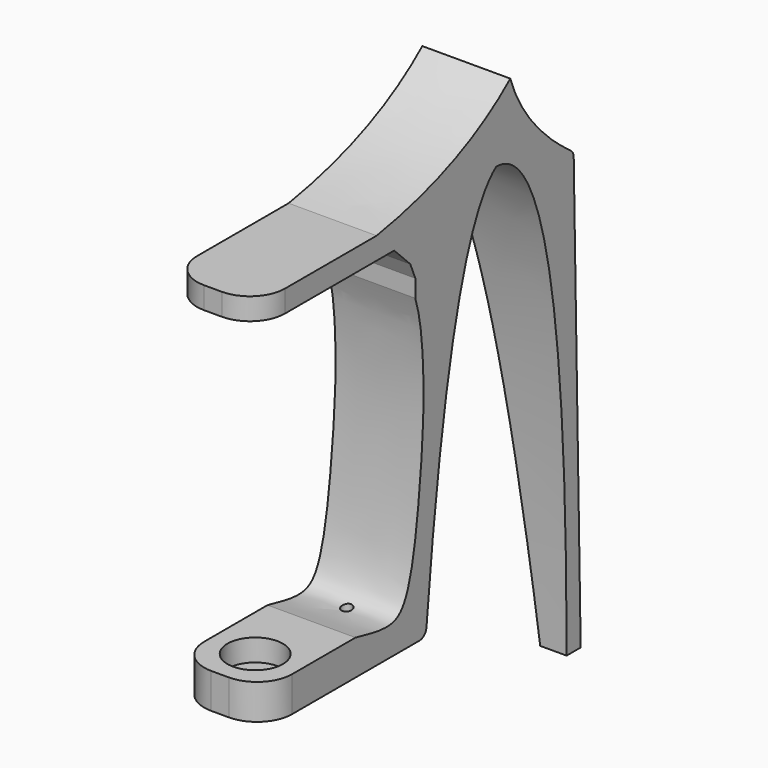
from build123d import *

# Parameters (mm, degrees)
CYLINDER092_R     = 3.15
CYLINDER092_DEPTH = 10
CYLINDER096_R     = 0.6
CYLINDER096_DEPTH = 20
BOX047_W          = 12
BOX047_H          = 23
BOX047_DEPTH      = 10
CHAMFER006_SIZE   = 3
CHAMFER007_SIZE   = 1
CYLINDER093_R     = 3.15
CYLINDER093_DEPTH = 10
PAD008_DEPTH      = 10
CHAMFER011_SIZE2  = 50
CHAMFER011_SIZE   = 7
FILLET063_R       = 1
FILLET064_R       = 1
FILLET062_R       = 4
CYLINDER120_R     = 1.4
CYLINDER120_DEPTH = 2.5
FILLET065_R       = 4


with BuildPart() as zylinder092:
    # Cylinder092 → Cylinder092 (new body)
    with BuildSketch(Plane(origin=(-52.5, 10, -1), x_dir=(1, 0, 0), z_dir=(0, 0, 1))):
        Circle(CYLINDER092_R)
    extrude(amount=CYLINDER092_DEPTH)


with BuildPart() as zylinder096:
    # Cylinder096 → Cylinder096 (new body)
    with BuildSketch(Plane(origin=(-52.5, 23, -38.5), x_dir=(1, 0, 0), z_dir=(0, 0, 1))):
        Circle(CYLINDER096_R)
    extrude(amount=CYLINDER096_DEPTH)


with BuildPart() as chamfer007:
    # Box047 → Box047 (new body)
    with BuildSketch(Plane(origin=(-58.5, 3.5, -2.5), x_dir=(1, 0, 0), z_dir=(0, 0, 1))):
        with Locations((6, 11.5)):
            Rectangle(BOX047_W, BOX047_H)
    extrude(amount=BOX047_DEPTH)

    # Chamfer006
    chamfer006_edges = [chamfer007.edges().sort_by_distance(p)[0] for p in [
        (-52.5, 26.5, 7.5),
    ]]
    chamfer(chamfer006_edges, length=CHAMFER006_SIZE)

    # Chamfer007
    chamfer007_edges = [chamfer007.edges().sort_by_distance(p)[0] for p in [
        (-52.5, 26.5, 4.5),
    ]]
    chamfer(chamfer007_edges, length=CHAMFER007_SIZE)


with BuildPart() as fusion072:
    # Cylinder093 → Cylinder093 (new body)
    with BuildSketch(Plane(origin=(-52.5, 10, -31.5), x_dir=(1, 0, 0), z_dir=(0, 0, 1))):
        Circle(CYLINDER093_R)
    extrude(amount=CYLINDER093_DEPTH)

    # Fusion072: union Zylinder092, Zylinder096, Chamfer007
    add(zylinder092.part)
    add(zylinder096.part)
    add(chamfer007.part)


with BuildPart() as fillet062:
    # Sketch008 → Pad008 (new body)
    with BuildSketch(Plane.YZ):
        with BuildLine():
            Line((16, 4), (4, 4))
            Line((4, 4), (4, 10))
            Line((4, 10), (21, 10))
            add(Edge.make_bspline(
                [(21, 10), (33, 12), (40, 18)],
                knots=[0, 0, 0, 1, 1, 1], degree=2))
            add(Edge.make_bspline(
                [(40, 18), (42, 12), (49, 7)],
                knots=[0, 0, 0, 1, 1, 1], degree=2))
            add(Edge.make_bspline(
                [(49, 7), (50, -43)],
                knots=[0, 0, 1, 1], degree=1))
            Line((50, -43), (48, -43))
            add(Edge.make_bspline(
                [(48, -43), (48, 10), (38, 10)],
                knots=[0, 0, 0, 1, 1, 1], degree=2))
            add(Edge.make_bspline(
                [(28, -33), (31.54521, 5.416211), (38, 10)],
                knots=[0, 0, 0, 1, 1, 1], degree=2))
            Line((28, -33), (5, -33))
            Line((5, -33), (5, -29))
            Line((5, -29), (18, -29))
            add(Edge.make_bspline(
                [(21, 6), (25.7922, 6), (28.2733, -3.63721), (27.206068, -18.457365), (25.411083, -30.376215), (22.292137, -30), (18, -29)],
                knots=[0, 0, 0, 0, 0.25, 0.5, 0.75, 1, 1, 1, 1], degree=3))
            Line((21, 6), (16, 4))
        make_face()
    extrude(amount=PAD008_DEPTH)

    # Chamfer011
    chamfer011_edges = [fillet062.edges().sort_by_distance(p)[0] for p in [
        (0, 49, -43),
    ]]
    chamfer011_side = fillet062.faces().sort_by_distance((5, 49, -43))[0]
    chamfer(chamfer011_edges, length=CHAMFER011_SIZE, length2=CHAMFER011_SIZE2, reference=chamfer011_side)


with BuildPart() as fillet062_1:
    # Chamfer011 placement: moved
    add(fillet062.part.moved(Location((11.5, 0, 0))))

    # Fillet063
    fillet063_edges = [fillet062_1.edges().sort_by_distance(p)[0] for p in [
        (16.5, 49, 7),
    ]]
    fillet(fillet063_edges, radius=FILLET063_R)

    # Fillet064
    fillet064_edges = [fillet062_1.edges().sort_by_distance(p)[0] for p in [
        (16.5, 28, -33),
    ]]
    fillet(fillet064_edges, radius=FILLET064_R)

    # Fillet062
    fillet062_edges = [fillet062_1.edges().sort_by_distance(p)[0] for p in [
        (21.5, 4, 7),
        (11.5, 4, 7),
    ]]
    fillet(fillet062_edges, radius=FILLET062_R)


with BuildPart() as fillet065:
    # Cylinder120 → Cylinder120 (new body)
    with BuildSketch(Plane(origin=(16.5, 23, -35.5), x_dir=(1, 0, 0), z_dir=(0, 0, 1))):
        Circle(CYLINDER120_R)
    extrude(amount=CYLINDER120_DEPTH)

    # Fusion080: union Fillet062
    add(fillet062_1.part)


with BuildPart() as fillet065_1:
    # Fusion080 placement: moved
    add(fillet065.part.moved(Location((-69, 0, 0))))

    # Cut060: cut Fusion072
    add(fusion072.part, mode=Mode.SUBTRACT)

    # Fillet065
    fillet065_edges = [fillet065_1.edges().sort_by_distance(p)[0] for p in [
        (-47.5, 5, -31),
        (-57.5, 5, -31),
    ]]
    fillet(fillet065_edges, radius=FILLET065_R)


solid = fillet065_1.part
